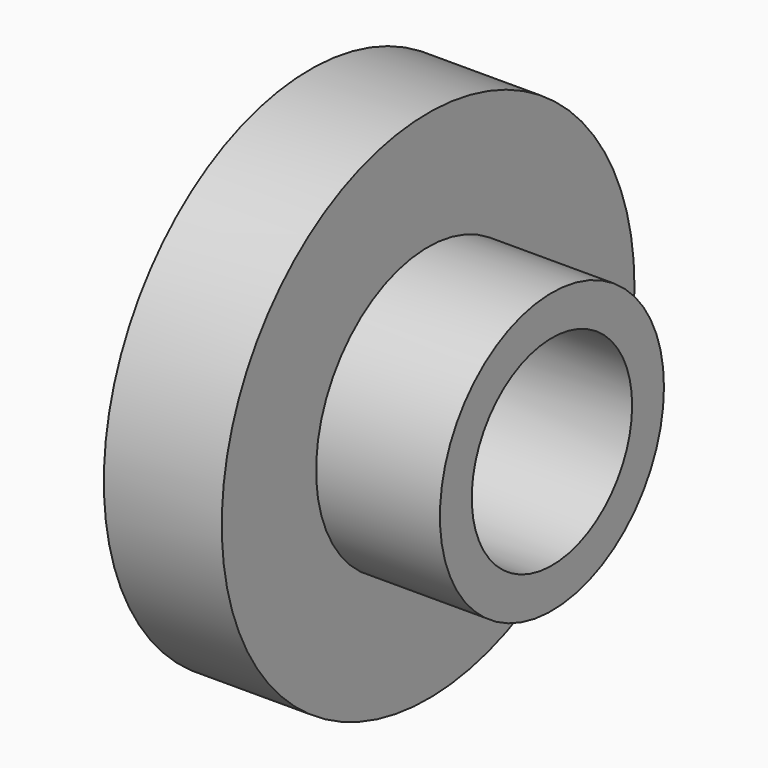
from build123d import *

# Parameters (mm, degrees)
F0_R     = 11.1125
F0_R_2   = 6.0325
F0_R_3   = 4.318
F0_R_4   = 2.1082
F1_DEPTH = 5.08
F2_DEPTH = 10.414
F3_START = 4.445
F3_DEPTH = 8.255


with BuildPart() as f1:
    # F0 (on Right) → F1 (new body)
    with BuildSketch(Plane.YZ):
        Circle(F0_R)
        Circle(F0_R_2, mode=Mode.SUBTRACT)
        Circle(F0_R_2)
        Circle(F0_R_3, mode=Mode.SUBTRACT)
        Circle(F0_R_3)
        Circle(F0_R_4, mode=Mode.SUBTRACT)
    extrude(amount=F1_DEPTH)

    # F0 (on Right) → F2 (join)
    with BuildSketch(Plane.YZ):
        Circle(F0_R_2)
        Circle(F0_R_3, mode=Mode.SUBTRACT)
        Circle(F0_R_3)
        Circle(F0_R_4, mode=Mode.SUBTRACT)
    extrude(amount=F2_DEPTH)

    # F0 (on Right) → F3 (cut)
    with BuildSketch(Plane.YZ.offset(F3_START)):
        Circle(F0_R_3)
        Circle(F0_R_4, mode=Mode.SUBTRACT)
    extrude(amount=F3_DEPTH, mode=Mode.SUBTRACT)


solid = f1.part
